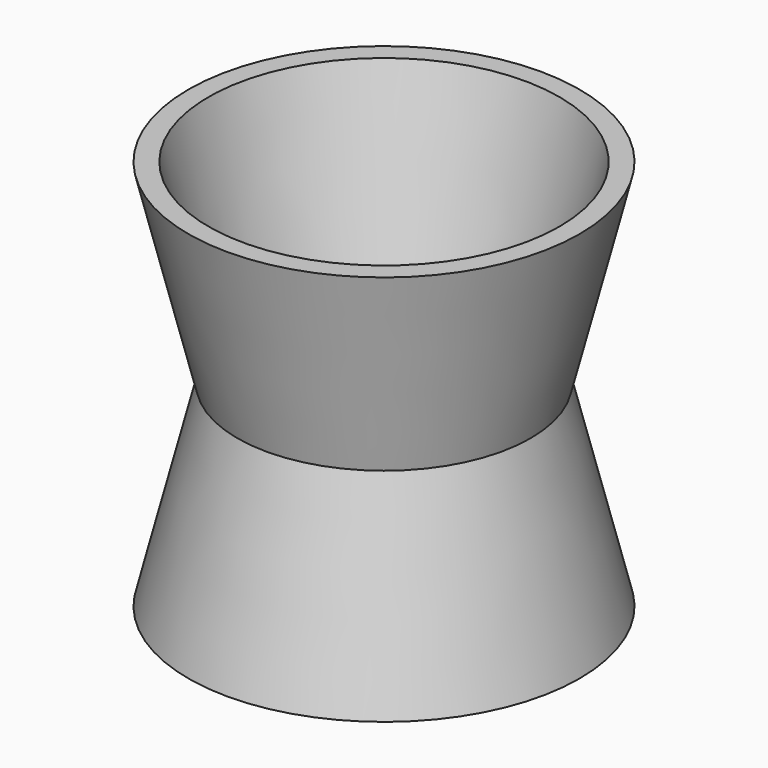
from build123d import *

# Parameters (mm, degrees)
F2_R = 50.8
F0_R = 38.1
F5_T = -5.08


with BuildPart() as f3:
    # F2 (on offset) → F3 section 0
    with BuildSketch(Plane.XY.offset(50.8)):
        Circle(F2_R)
    # F0 (on Top) → F3 section 1
    with BuildSketch(Plane.XY):
        Circle(F0_R)
    loft()

    # F4: F3 across plane


with BuildPart() as f3_1:
    add(f3.part)
    add(f3.part.mirror(Plane.XY))

    # F5
    f5_openings = [f3_1.faces().sort_by_distance(p)[0] for p in [
        (0, 0, -50.8),
        (0, 0, 50.8),
    ]]
    offset(amount=F5_T, openings=f5_openings, kind=Kind.INTERSECTION)


solid = f3_1.part
